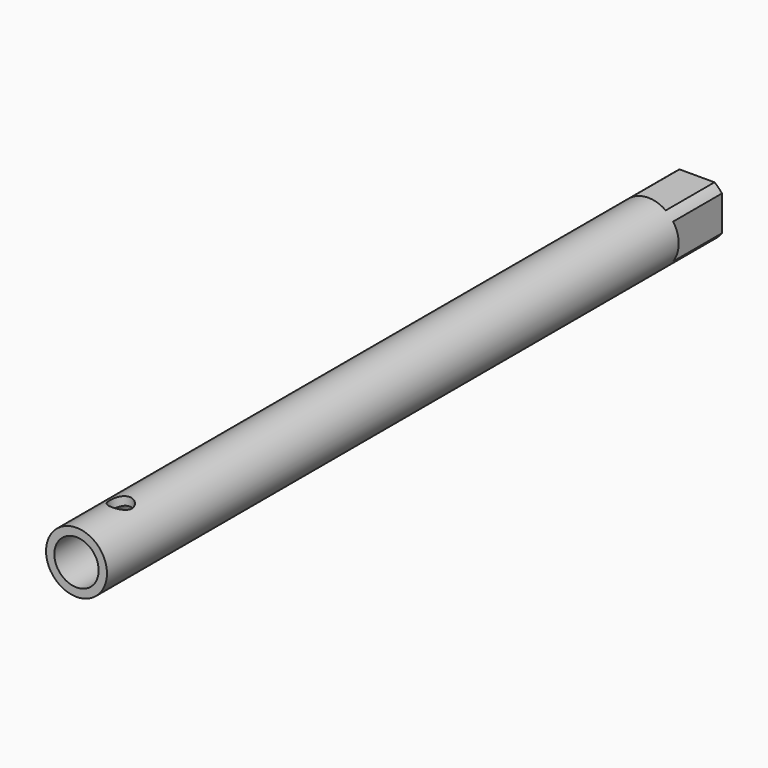
from build123d import *

# Parameters (mm, degrees)
F0_R     = 5.5
F1_DEPTH = 140
F2_R     = 4
F3_DEPTH = 20
F5_DEPTH = 11
F6_R     = 2
F7_DEPTH = 12.5


with BuildPart() as f1:
    # F0 (on Front) → F1 (new body)
    with BuildSketch(Plane.XZ):
        Circle(F0_R)
    extrude(amount=F1_DEPTH)

    # F2 (on face) → F3 (cut)
    with BuildSketch(Plane.XZ.offset(140)):
        Circle(F2_R)
    extrude(amount=-F3_DEPTH, mode=Mode.SUBTRACT)

    # F4 (on face) → F5 (cut)
    with BuildSketch(Plane(origin=(0, 0, 0), x_dir=(-1, 0, 0), z_dir=(0, 1, 0))):
        with BuildLine():
            Line((4.5, 3.1622776602), (4.5, -3.1622776602))
            ThreePointArc((4.5, -3.1622776602), (5.2440442409, -1.6583123952), (5.5, 0))
            ThreePointArc((5.5, 0), (5.2440442409, 1.6583123952), (4.5, 3.1622776602))
        make_face()
        with BuildLine():
            ThreePointArc((3.1622776602, 4.5), (0, 5.5), (-3.1622776602, 4.5))
            Line((-3.1622776602, 4.5), (3.1622776602, 4.5))
        make_face()
        with BuildLine():
            ThreePointArc((-4.5, 3.1622776602), (-5.5, 0), (-4.5, -3.1622776602))
            Line((-4.5, -3.1622776602), (-4.5, 3.1622776602))
        make_face()
        with BuildLine():
            Line((3.1622776602, -4.5), (-3.1622776602, -4.5))
            ThreePointArc((-3.1622776602, -4.5), (0, -5.5), (3.1622776602, -4.5))
        make_face()
    extrude(amount=-F5_DEPTH, mode=Mode.SUBTRACT)

    # F6 (on Top) → F7 (cut, symmetric)
    with BuildSketch(Plane.XY):
        with Locations((0, -130)):
            Circle(F6_R)
    extrude(amount=F7_DEPTH, both=True, mode=Mode.SUBTRACT)


solid = f1.part
